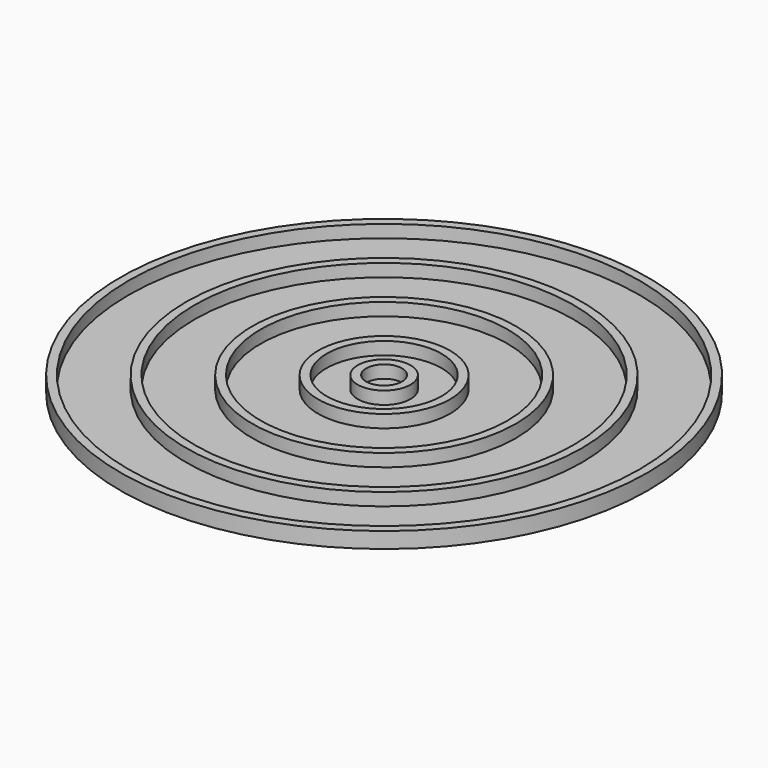
from build123d import *

# Parameters (mm, degrees)
F0_R     = 50
F0_R_2   = 48.4
F0_R_3   = 37.5
F0_R_4   = 35.9
F0_R_5   = 25
F0_R_6   = 23.4
F0_R_7   = 12.5
F0_R_8   = 10.9
F0_R_9   = 5
F0_R_10  = 3.4
F1_DEPTH = 3
F2_DEPTH = 0.6


with BuildPart() as f1:
    # F0 (on Top) → F1 (new body)
    with BuildSketch(Plane.XY):
        Circle(F0_R)
        Circle(F0_R_2, mode=Mode.SUBTRACT)
        Circle(F0_R_3)
        Circle(F0_R_4, mode=Mode.SUBTRACT)
        Circle(F0_R_5)
        Circle(F0_R_6, mode=Mode.SUBTRACT)
        Circle(F0_R_7)
        Circle(F0_R_8, mode=Mode.SUBTRACT)
        Circle(F0_R_9)
        Circle(F0_R_10, mode=Mode.SUBTRACT)
    extrude(amount=F1_DEPTH)

    # F0 (on Top) → F2 (join)
    with BuildSketch(Plane.XY):
        Circle(F0_R_2)
        Circle(F0_R_3, mode=Mode.SUBTRACT)
        Circle(F0_R_4)
        Circle(F0_R_5, mode=Mode.SUBTRACT)
        Circle(F0_R_6)
        Circle(F0_R_7, mode=Mode.SUBTRACT)
        Circle(F0_R_8)
        Circle(F0_R_9, mode=Mode.SUBTRACT)
        Circle(F0_R_10)
    extrude(amount=F2_DEPTH)


solid = f1.part
